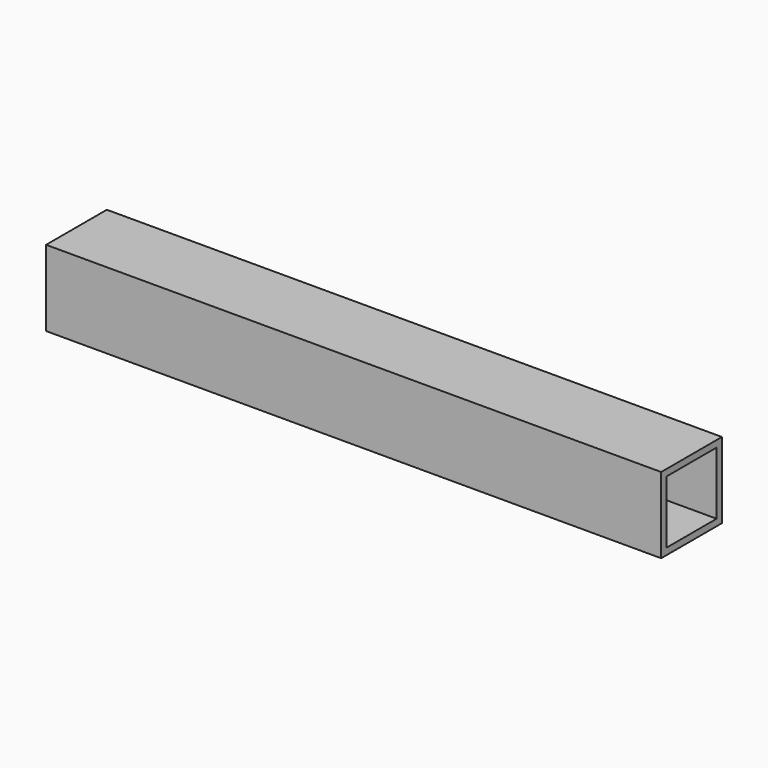
from build123d import *

# Parameters (mm, degrees)
SKETCH_W   = 31.75
SKETCH_H   = 31.75
SKETCH_W_2 = 26.2128
SKETCH_H_2 = 26.2128
PAD_DEPTH  = 257.175


with BuildPart() as part:
    # Sketch → Pad (new body)
    with BuildSketch(Plane.YZ):
        Rectangle(SKETCH_W, SKETCH_H)
        Rectangle(SKETCH_W_2, SKETCH_H_2, mode=Mode.SUBTRACT)
    extrude(amount=-PAD_DEPTH)


solid = part.part
